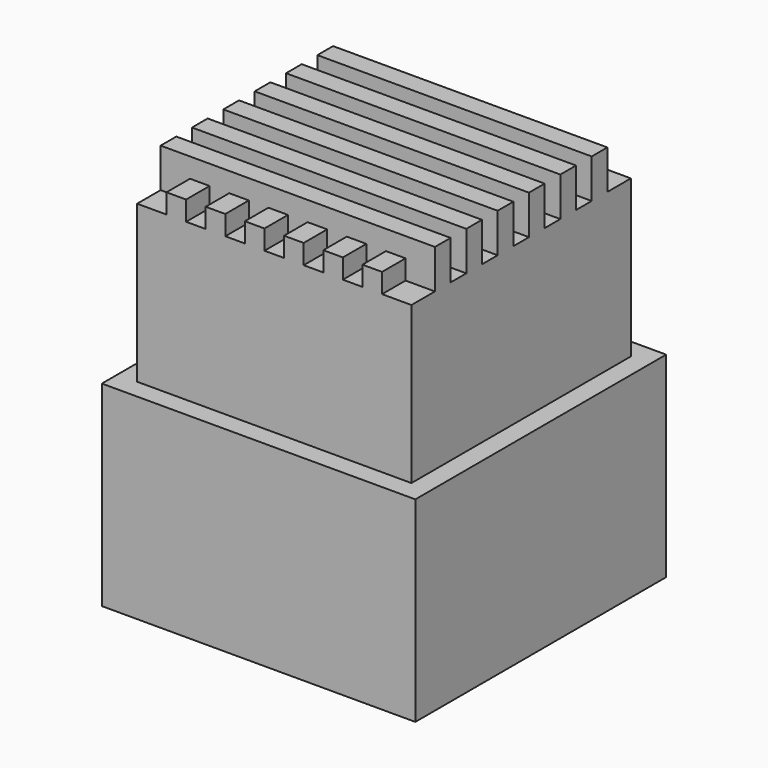
from build123d import *

# Parameters (mm, degrees)
BOX003_W     = 10
BOX003_H     = 10
BOX003_DEPTH = 16
BOX_W        = 16
BOX_H        = 16
BOX_DEPTH    = 10
BOX002_W     = 14
BOX002_H     = 14
BOX002_DEPTH = 18
SKETCH_W     = 14
SKETCH_H     = 1
PAD_DEPTH    = 2
SKETCH001_W  = 14
SKETCH001_H  = 1
PAD001_DEPTH = 1


with BuildPart() as cube001:
    # Box003 → Box003 (new body)
    with BuildSketch(Plane(origin=(-5, -5, 0), x_dir=(1, 0, 0), z_dir=(0, 0, 1))):
        with Locations((5, 5)):
            Rectangle(BOX003_W, BOX003_H)
    extrude(amount=BOX003_DEPTH)


with BuildPart() as cube:
    # Box → Box (new body)
    with BuildSketch(Plane(origin=(-8, -8, 0), x_dir=(1, 0, 0), z_dir=(0, 0, 1))):
        with Locations((8, 8)):
            Rectangle(BOX_W, BOX_H)
    extrude(amount=BOX_DEPTH)


with BuildPart() as cut:
    # Box002 → Box002 (join)
    with BuildSketch(Plane(origin=(-7, -7, 0), x_dir=(1, 0, 0), z_dir=(0, 0, 1))):
        with Locations((7, 7)):
            Rectangle(BOX002_W, BOX002_H)
    extrude(amount=BOX002_DEPTH)

    # Sketch (on Face6 of Box002) → Pad (join)
    with BuildSketch(Plane(origin=(-7, -7, 18), x_dir=(1, 0, 0), z_dir=(0, 0, 1))):
        with Locations((7, 10)):
            Rectangle(SKETCH_W, SKETCH_H)
        with Locations((7, 8)):
            Rectangle(SKETCH_W, SKETCH_H)
        with Locations((7, 6)):
            Rectangle(SKETCH_W, SKETCH_H)
        with Locations((7, 4)):
            Rectangle(SKETCH_W, SKETCH_H)
        with Locations((7, 2)):
            Rectangle(SKETCH_W, SKETCH_H)
        with Locations((7, 12)):
            Rectangle(SKETCH_W, SKETCH_H)
    extrude(amount=PAD_DEPTH)

    # Sketch001 (on Face6 of Box002) → Pad001 (join)
    with BuildSketch(Plane(origin=(7, -7, 18), x_dir=(0, 1, 0), z_dir=(0, 0, 1))):
        with Locations((7, 10)):
            Rectangle(SKETCH001_W, SKETCH001_H)
        with Locations((7, 8)):
            Rectangle(SKETCH001_W, SKETCH001_H)
        with Locations((7, 6)):
            Rectangle(SKETCH001_W, SKETCH001_H)
        with Locations((7, 4)):
            Rectangle(SKETCH001_W, SKETCH001_H)
        with Locations((7, 2)):
            Rectangle(SKETCH001_W, SKETCH001_H)
        with Locations((7, 12)):
            Rectangle(SKETCH001_W, SKETCH001_H)
    extrude(amount=PAD001_DEPTH)

    # Fusion: union Cube
    add(cube.part)

    # Cut: cut Cube001
    add(cube001.part, mode=Mode.SUBTRACT)


solid = cut.part
